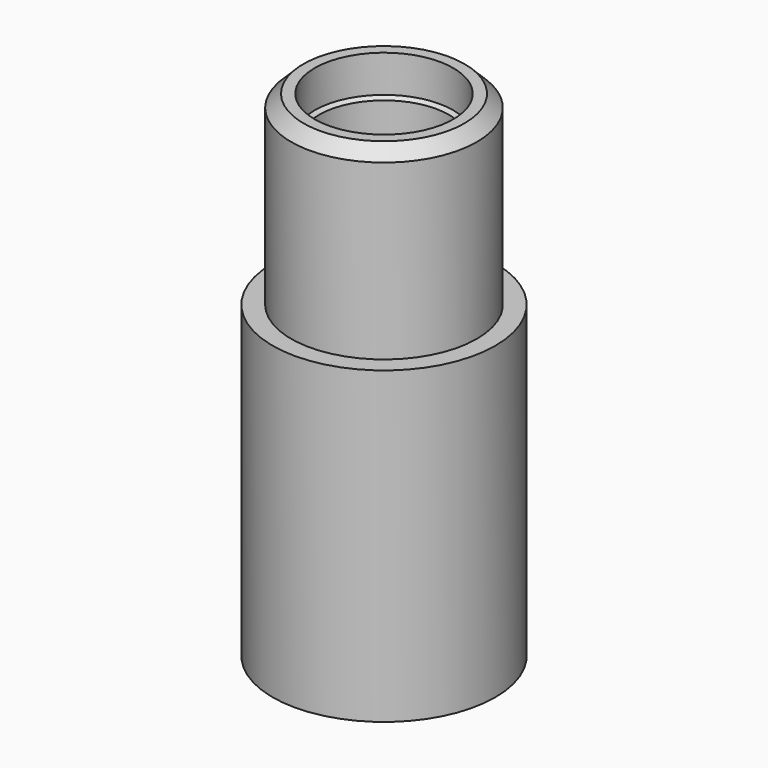
from build123d import *

# Parameters (mm, degrees)
F0_R      = 15
F1_DEPTH  = 80
F2_R      = 18
F3_DEPTH  = 50
F6_D      = 6.35
F8_D      = 21
F8_DEPTH  = 45
F8_TIP    = 6.3090364998
F10_D     = 22.4
F10_DEPTH = 6
F10_TIP   = 6.7296389331
F11_SIZE  = 2


with BuildPart() as f1:
    # F0 (on Top) → F1 (new body)
    with BuildSketch(Plane.XY):
        Circle(F0_R)
    extrude(amount=F1_DEPTH)

    # F2 (on Top) → F3 (join)
    with BuildSketch(Plane.XY):
        Circle(F2_R)
    extrude(amount=F3_DEPTH)

    # F6 (through all)
    with Locations(Plane.XY.offset(80)):
        with Locations((0, 0)):
            Hole(F6_D / 2)

    # F8
    with Locations(Plane.XY.offset(80)):
        with Locations((0, 0)):
            Hole(F8_D / 2, depth=F8_DEPTH)
            with Locations((0, 0, -(F8_DEPTH + F8_TIP / 2))):  # 118° drill point
                Cone(0, F8_D / 2, F8_TIP, mode=Mode.SUBTRACT)

    # F10
    with Locations(Plane.XY.offset(80)):
        with Locations((0, 0)):
            Hole(F10_D / 2, depth=F10_DEPTH)
            with Locations((0, 0, -(F10_DEPTH + F10_TIP / 2))):  # 118° drill point
                Cone(0, F10_D / 2, F10_TIP, mode=Mode.SUBTRACT)

    # F11
    f11_edges = [f1.edges().sort_by_distance(p)[0] for p in [
        (-15, 0, 80),
    ]]
    chamfer(f11_edges, length=F11_SIZE)


solid = f1.part
